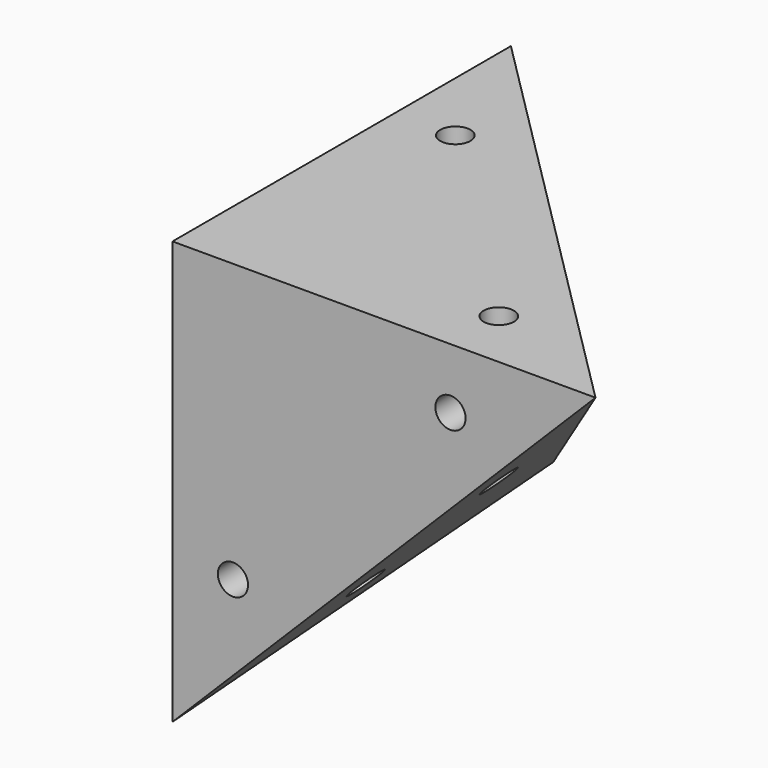
from build123d import *

# Parameters (mm, degrees)
F0_W     = 35
F0_H     = 35
F1_DEPTH = 35
F3_DEPTH = 35.001
F5_DEPTH = 35.001
F7_DEPTH = 35.001
F9_D     = 2.5
F11_D    = 2.5
F13_D    = 2.5


with BuildPart() as f1:
    # F0 (on Top) → F1 (new body)
    with BuildSketch(Plane.XY):
        with Locations((17.5, 17.5)):
            Rectangle(F0_W, F0_H)
    extrude(amount=F1_DEPTH)

    # F2 (on face) → F3 (cut, through all)
    with BuildSketch(Plane.XY.offset(35)):
        Polygon((35, 35), (0, 35), (35, 0), align=None)
    extrude(amount=-F3_DEPTH, mode=Mode.SUBTRACT)

    # F4 (on face) → F5 (cut, through all)
    with BuildSketch(Plane.XZ):
        Polygon((35, 35), (0, 0), (35, 0), align=None)
    extrude(amount=-F5_DEPTH, mode=Mode.SUBTRACT)

    # F6 (on face) → F7 (cut, through all)
    with BuildSketch(Plane(origin=(0, 0, 0), x_dir=(0, -1, 0), z_dir=(-1, 0, 0))):
        Polygon((-35, 0), (0, 0), (-35, 35), align=None)
    extrude(amount=-F7_DEPTH, mode=Mode.SUBTRACT)

    # F9 (through all)
    with Locations(Plane.XZ):
        with Locations((23, 30), (5, 12)):
            Hole(F9_D / 2)

    # F11 (through all)
    with Locations(Plane(origin=(0, 0, 0), x_dir=(0, -1, 0), z_dir=(-1, 0, 0))):
        with Locations((-23, 30), (-5, 12)):
            Hole(F11_D / 2)

    # F13 (through all)
    with Locations(Plane.XY.offset(35)):
        with Locations((5, 23), (23, 5)):
            Hole(F13_D / 2)


solid = f1.part
